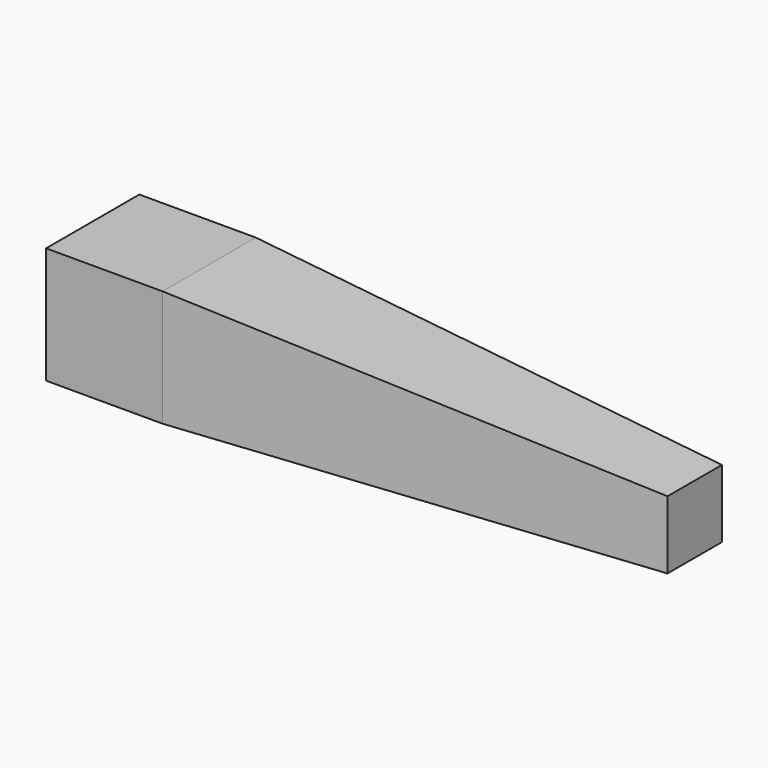
from build123d import *

# Parameters (mm, degrees)
F0_W     = 152.4
F0_H     = 152.4
F1_DEPTH = 762
F3_DEPTH = 152.4
F5_DEPTH = 152.4


with BuildPart() as f1:
    # F0 (on Right) → F1 (new body)
    with BuildSketch(Plane.YZ):
        Rectangle(F0_W, F0_H)
    extrude(amount=F1_DEPTH)

    # F2 (on face) → F3 (cut)
    with BuildSketch(Plane.XY.offset(76.2)):
        Polygon((762, -12.7), (152.4, -76.2), (762, -76.2), align=None)
    extrude(amount=-F3_DEPTH, mode=Mode.SUBTRACT)

    # F4 (on face) → F5 (cut)
    with BuildSketch(Plane(origin=(0, 76.2, 0), x_dir=(-1, 0, 0), z_dir=(0, 1, 0))):
        Polygon((-762, 12.7), (-152.4, 76.2), (-762, 76.2), align=None)
    extrude(amount=-F5_DEPTH, mode=Mode.SUBTRACT)


solid = f1.part
